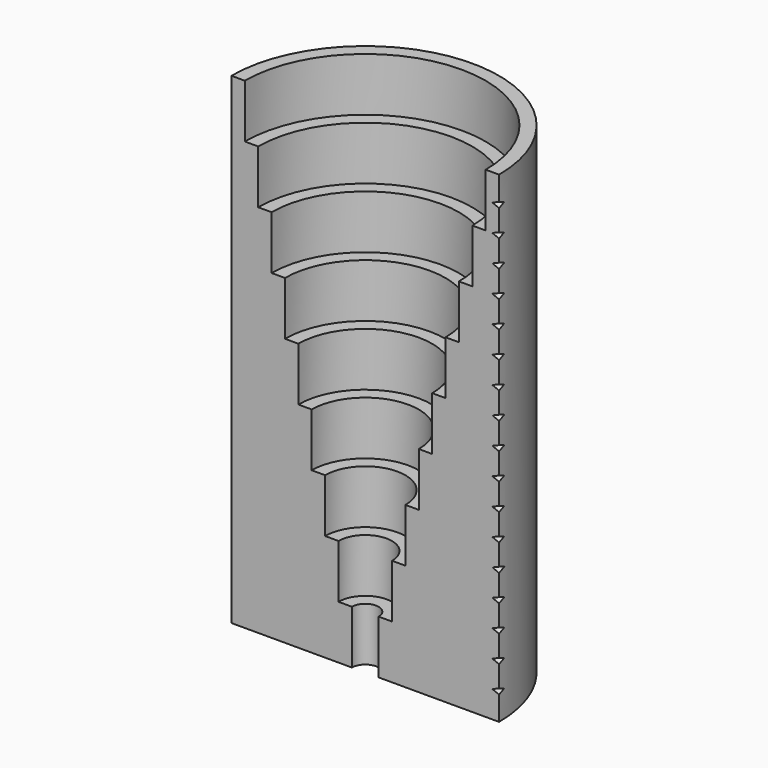
from build123d import *

# Parameters (mm, degrees)
F1_DEPTH = 18
F2_DEPTH = 16
F3_DEPTH = 14
F4_DEPTH = 12
F5_DEPTH = 10
F6_DEPTH = 8
F7_DEPTH = 6
F8_DEPTH = 4
F9_DEPTH = 2


with BuildPart() as f1:
    # F0 (on Top) → F1 (new body)
    with BuildSketch(Plane.XY):
        with BuildLine():
            Line((-5, 0), (-4.5, 0))
            ThreePointArc((-4.5, 0), (0, 4.5), (4.5, 0))
            Line((4.5, 0), (5, 0))
            ThreePointArc((5, 0), (0, 5), (-5, 0))
        make_face()
    extrude(amount=F1_DEPTH)

    # F0 (on Top) → F2 (join)
    with BuildSketch(Plane.XY):
        with BuildLine():
            Line((-4.5, 0), (-4, 0))
            ThreePointArc((-4, 0), (0, 4), (4, 0))
            Line((4, 0), (4.5, 0))
            ThreePointArc((4.5, 0), (0, 4.5), (-4.5, 0))
        make_face()
    extrude(amount=F2_DEPTH)

    # F0 (on Top) → F3 (join)
    with BuildSketch(Plane.XY):
        with BuildLine():
            Line((-4, 0), (-3.5, 0))
            ThreePointArc((-3.5, 0), (0, 3.5), (3.5, 0))
            Line((3.5, 0), (4, 0))
            ThreePointArc((4, 0), (0, 4), (-4, 0))
        make_face()
    extrude(amount=F3_DEPTH)

    # F0 (on Top) → F4 (join)
    with BuildSketch(Plane.XY):
        with BuildLine():
            Line((-3.5, 0), (-3, 0))
            ThreePointArc((-3, 0), (0, 3), (3, 0))
            Line((3, 0), (3.5, 0))
            ThreePointArc((3.5, 0), (0, 3.5), (-3.5, 0))
        make_face()
    extrude(amount=F4_DEPTH)

    # F0 (on Top) → F5 (join)
    with BuildSketch(Plane.XY):
        with BuildLine():
            Line((-3, 0), (-2.5, 0))
            ThreePointArc((-2.5, 0), (0, 2.5), (2.5, 0))
            Line((2.5, 0), (3, 0))
            ThreePointArc((3, 0), (0, 3), (-3, 0))
        make_face()
    extrude(amount=F5_DEPTH)

    # F0 (on Top) → F6 (join)
    with BuildSketch(Plane.XY):
        with BuildLine():
            Line((-2.5, 0), (-2, 0))
            ThreePointArc((-2, 0), (0, 2), (2, 0))
            Line((2, 0), (2.5, 0))
            ThreePointArc((2.5, 0), (0, 2.5), (-2.5, 0))
        make_face()
    extrude(amount=F6_DEPTH)

    # F0 (on Top) → F7 (join)
    with BuildSketch(Plane.XY):
        with BuildLine():
            Line((-2, 0), (-1.5, 0))
            ThreePointArc((-1.5, 0), (0, 1.5), (1.5, 0))
            Line((1.5, 0), (2, 0))
            ThreePointArc((2, 0), (0, 2), (-2, 0))
        make_face()
    extrude(amount=F7_DEPTH)

    # F0 (on Top) → F8 (join)
    with BuildSketch(Plane.XY):
        with BuildLine():
            Line((-1.5, 0), (-1, 0))
            ThreePointArc((-1, 0), (0, 1), (1, 0))
            Line((1, 0), (1.5, 0))
            ThreePointArc((1.5, 0), (0, 1.5), (-1.5, 0))
        make_face()
    extrude(amount=F8_DEPTH)

    # F0 (on Top) → F9 (join)
    with BuildSketch(Plane.XY):
        with BuildLine():
            Line((-1, 0), (-0.5, 0))
            ThreePointArc((-0.5, 0), (0, 0.5), (0.5, 0))
            Line((0.5, 0), (1, 0))
            ThreePointArc((1, 0), (0, 1), (-1, 0))
        make_face()
    extrude(amount=F9_DEPTH)

    # F10 (on Front) → F11 (revolve, cut)
    with BuildSketch(Plane.XZ):
        Polygon((5, 17.103553), (4.75, 17), (5, 16.896447), align=None)
        Polygon((4.75, 16), (5, 15.896447), (5, 16.103553), align=None)
        Polygon((4.75, 15), (5, 14.896447), (5, 15.103553), align=None)
        Polygon((4.75, 14), (5, 13.896447), (5, 14.103553), align=None)
        Polygon((4.75, 13), (5, 12.896447), (5, 13.103553), align=None)
        Polygon((4.75, 12), (5, 11.896447), (5, 12.103553), align=None)
        Polygon((4.75, 11), (5, 10.896447), (5, 11.103553), align=None)
        Polygon((4.75, 10), (5, 9.896447), (5, 10.103553), align=None)
        Polygon((4.75, 9), (5, 8.896447), (5, 9.103553), align=None)
        Polygon((4.75, 8), (5, 7.896447), (5, 8.103553), align=None)
        Polygon((4.75, 7), (5, 6.896447), (5, 7.103553), align=None)
        Polygon((4.75, 1), (5, 0.896447), (5, 1.103553), align=None)
        Polygon((4.75, 2), (5, 1.896447), (5, 2.103553), align=None)
        Polygon((4.75, 3), (5, 2.896447), (5, 3.103553), align=None)
        Polygon((4.75, 4), (5, 3.896447), (5, 4.103553), align=None)
        Polygon((4.75, 5), (5, 4.896447), (5, 5.103553), align=None)
        Polygon((4.75, 6), (5, 5.896447), (5, 6.103553), align=None)
    revolve(axis=Axis((5, 0, 9), (0, 0, 1)), mode=Mode.SUBTRACT)


solid = f1.part
